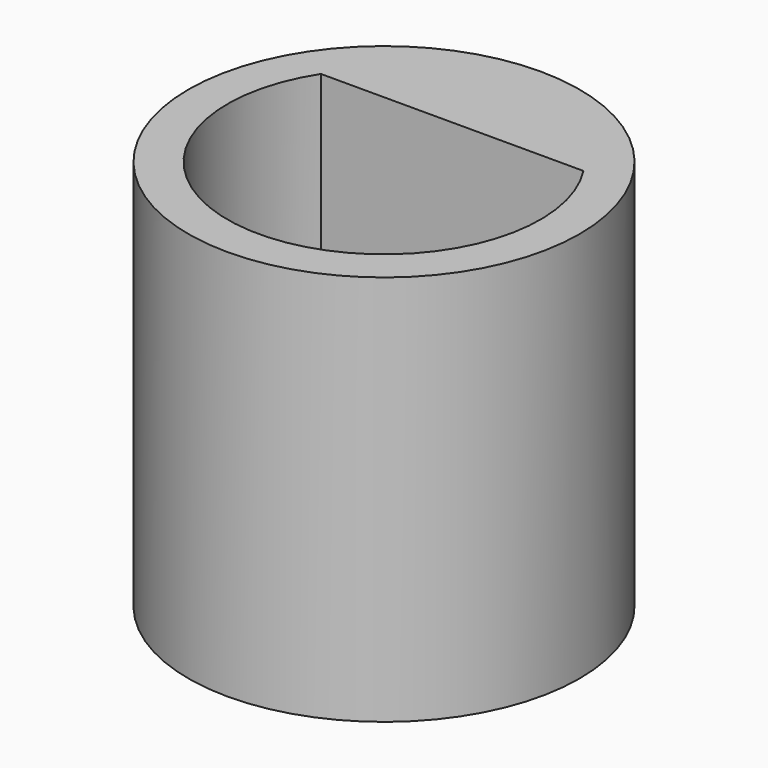
from build123d import *

# Parameters (mm, degrees)
F0_R          = 4.5
F1_DEPTH      = 4.5
F1_DEPTH_BACK = 4.5


with BuildPart() as f1:
    # F0 (on Top) → F1 (new body, two sides)
    with BuildSketch(Plane.XY) as f1_sk:
        Circle(F0_R)
        with BuildLine():
            ThreePointArc((3.019669, 1.96), (0, -3.6), (-3.019669, 1.96))
            Line((-3.019669, 1.96), (3.019669, 1.96))
        make_face(mode=Mode.SUBTRACT)
    extrude(amount=F1_DEPTH)
    extrude(f1_sk.sketch, amount=-F1_DEPTH_BACK)


solid = f1.part
